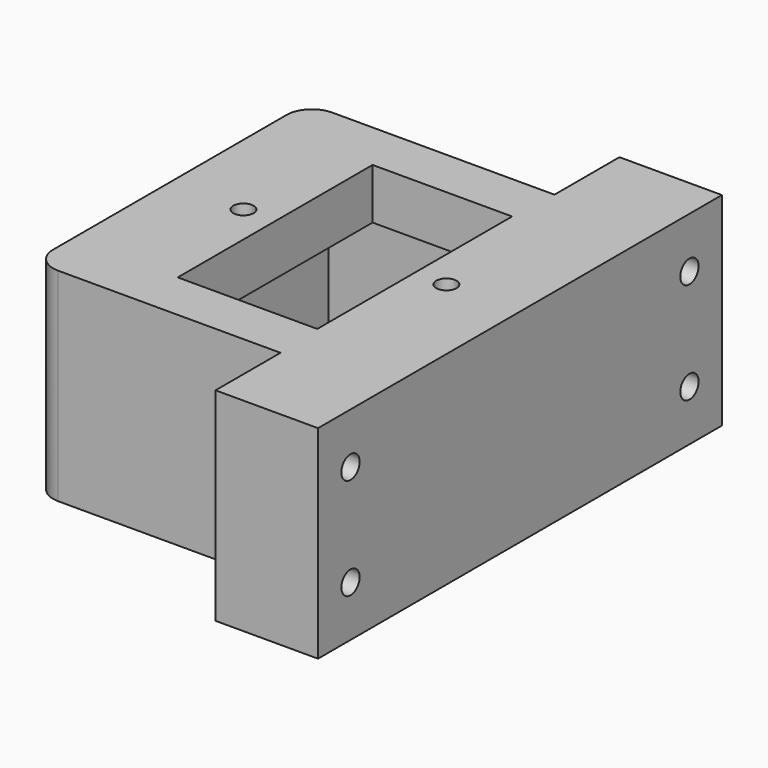
from build123d import *

# Parameters (mm, degrees)
F0_R      = 2
F0_W      = 27.5
F0_H      = 48
F1_DEPTH  = 1
F0_W_2    = 69
F0_H_2    = 99.5
F2_DEPTH  = 40
F3_W      = 54
F3_H      = 59.5
F3_R      = 2
F3_W_2    = 27.5
F3_H_2    = 48
F4_DEPTH  = 30
F5_W      = 48.8
F5_H      = 16
F6_DEPTH  = 40.001
F7_R      = 2.25
F8_DEPTH  = 20.201
F9_DEPTH  = 1
F11_DEPTH = 40.001


with BuildPart() as f1:
    # F0 (on Top) → F1 (new body)
    with BuildSketch(Plane.XY):
        Polygon((7.5751999344, 18.5791517273), (-21.0248000656, 18.5791517273), (-31.2248000656, -11.1708482727), (-21.0248000656, -40.9208482727), (7.5751999344, -40.9208482727), (17.7751999344, -11.1708482727), align=None)
        with Locations((-26.7248000656, -11.1708482727)):
            Circle(F0_R, mode=Mode.SUBTRACT)
        with Locations((-6.7248000656, -11.1708482727)):
            Rectangle(F0_W, F0_H, mode=Mode.SUBTRACT)
        with Locations((13.2751999344, -11.1708482727)):
            Circle(F0_R, mode=Mode.SUBTRACT)
    extrude(amount=F1_DEPTH)

    # F0 (on Top) → F2 (join)
    with BuildSketch(Plane.XY):
        with Locations((-6.7248000656, -11.1708482727)):
            Rectangle(F0_W_2, F0_H_2)
        Polygon((-31.2248000656, -11.1708482727), (-21.0248000656, 18.5791517273), (7.5751999344, 18.5791517273), (17.7751999344, -11.1708482727), (7.5751999344, -40.9208482727), (-21.0248000656, -40.9208482727), align=None, mode=Mode.SUBTRACT)
        Polygon((7.5751999344, 18.5791517273), (-21.0248000656, 18.5791517273), (-31.2248000656, -11.1708482727), (-21.0248000656, -40.9208482727), (7.5751999344, -40.9208482727), (17.7751999344, -11.1708482727), align=None)
        with Locations((-26.7248000656, -11.1708482727)):
            Circle(F0_R, mode=Mode.SUBTRACT)
        with Locations((-6.7248000656, -11.1708482727)):
            Rectangle(F0_W, F0_H, mode=Mode.SUBTRACT)
        with Locations((13.2751999344, -11.1708482727)):
            Circle(F0_R, mode=Mode.SUBTRACT)
    extrude(amount=-F2_DEPTH)

    # F3 (on face) → F4 (cut)
    with BuildSketch(Plane(origin=(0, 0, -40), x_dir=(1, 0, 0), z_dir=(0, 0, -1))):
        with Locations((-6.7248000656, 11.1708482727)):
            Rectangle(F3_W, F3_H)
        with Locations((-26.7248000656, 11.1708482727)):
            Circle(F3_R, mode=Mode.SUBTRACT)
        with Locations((-6.7248000656, 11.1708482727)):
            Rectangle(F3_W_2, F3_H_2, mode=Mode.SUBTRACT)
        with Locations((13.2751999344, 11.1708482727)):
            Circle(F3_R, mode=Mode.SUBTRACT)
        with Locations((-6.7248000656, 11.1708482727)):
            Rectangle(F3_W, F3_H)
        with Locations((-26.7248000656, 11.1708482727)):
            Circle(F3_R, mode=Mode.SUBTRACT)
        with Locations((-6.7248000656, 11.1708482727)):
            Rectangle(F3_W_2, F3_H_2, mode=Mode.SUBTRACT)
        with Locations((13.2751999344, 11.1708482727)):
            Circle(F3_R, mode=Mode.SUBTRACT)
        with Locations((-6.7248000656, 11.1708482727)):
            Rectangle(F3_W, F3_H)
        with Locations((-26.7248000656, 11.1708482727)):
            Circle(F3_R, mode=Mode.SUBTRACT)
        with Locations((-6.7248000656, 11.1708482727)):
            Rectangle(F3_W_2, F3_H_2, mode=Mode.SUBTRACT)
        with Locations((13.2751999344, 11.1708482727)):
            Circle(F3_R, mode=Mode.SUBTRACT)
    extrude(amount=-F4_DEPTH, mode=Mode.SUBTRACT)

    # F5 (on face) → F6 (cut, through all)
    with BuildSketch(Plane.XY):
        with Locations((-16.8248000656, -52.9208482727)):
            Rectangle(F5_W, F5_H)
        with Locations((-16.8248000656, 30.5791517273)):
            Rectangle(F5_W, F5_H)
    extrude(amount=-F6_DEPTH, mode=Mode.SUBTRACT)

    # F7 (on face) → F8 (cut, through all)
    with BuildSketch(Plane(origin=(7.5751999344, 0, 0), x_dir=(0, -1, 0), z_dir=(-1, 0, 0))):
        with Locations((52.9208482727, -10)):
            Circle(F7_R)
        with Locations((52.9208482727, -30)):
            Circle(F7_R)
        with Locations((-30.5791517273, -10)):
            Circle(F7_R)
        with Locations((-30.5791517273, -30)):
            Circle(F7_R)
    extrude(amount=-F8_DEPTH, mode=Mode.SUBTRACT)

    # F9 (cut): a face of the model
    f9_faces = [f1.faces().sort_by_distance(p)[0] for p in [
        (-6.7248000656, 17.8083566832, 1),
    ]]
    extrude(f9_faces, amount=-F9_DEPTH, mode=Mode.SUBTRACT)

    # F10 (on face) → F11 (cut, through all)
    with BuildSketch(Plane(origin=(0, 0, -40), x_dir=(1, 0, 0), z_dir=(0, 0, -1))):
        with BuildLine():
            ThreePointArc((-41.2248000656, 39.9208482727), (-39.7603339715, 43.4563821787), (-36.2248000656, 44.9208482727))
            Line((-36.2248000656, 44.9208482727), (-41.2248000656, 44.9208482727))
            Line((-41.2248000656, 44.9208482727), (-41.2248000656, 39.9208482727))
        make_face()
        with BuildLine():
            ThreePointArc((-36.2248000656, -22.5791517273), (-39.7603339715, -21.1146856332), (-41.2248000656, -17.5791517273))
            Line((-41.2248000656, -17.5791517273), (-41.2248000656, -22.5791517273))
            Line((-41.2248000656, -22.5791517273), (-36.2248000656, -22.5791517273))
        make_face()
    extrude(amount=-F11_DEPTH, mode=Mode.SUBTRACT)


solid = f1.part
